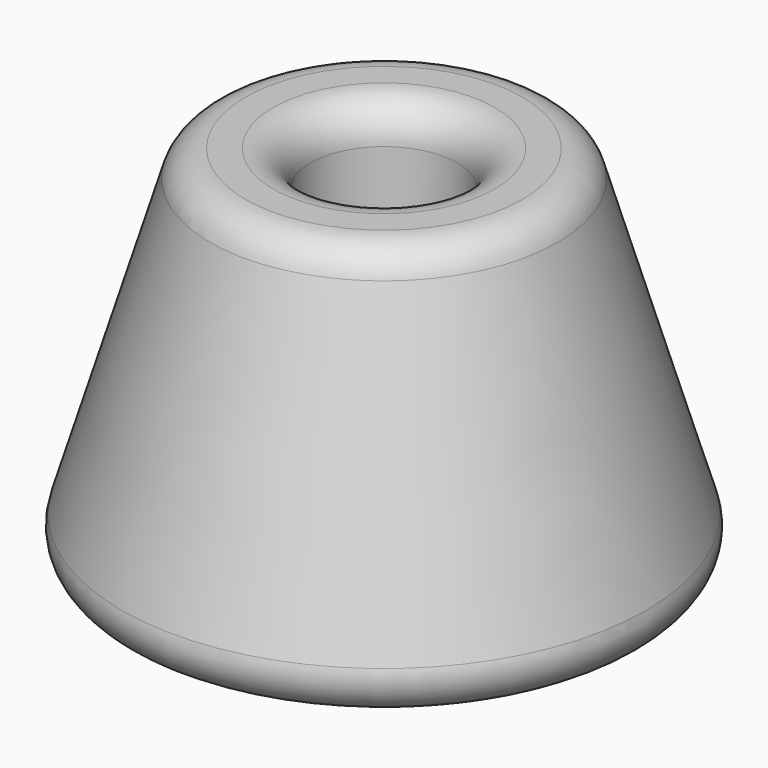
from build123d import *

# Parameters (mm, degrees)
F3_R    = 2.54
F4_SIZE = 2.54


with BuildPart() as f2:
    # F0 (on Front) → F2 (revolve)
    with BuildSketch(Plane.XZ):
        Polygon((2.032, 12.7), (2.032, 0), (19.05, 0), (11.43, 25.4), (5.08, 25.4), (5.08, 17.054286), align=None)
    revolve(axis=Axis((0, 0, 16.681224), (0, 0, 1)))

    # F3
    f3_edges = [f2.edges().sort_by_distance(p)[0] for p in [
        (-11.43, 0, 25.4),
        (-5.08, 0, 25.4),
        (-19.05, 0, 0),
    ]]
    fillet(f3_edges, radius=F3_R)

    # F4
    f4_edges = [f2.edges().sort_by_distance(p)[0] for p in [
        (-2.032, 0, 0),
    ]]
    chamfer(f4_edges, length=F4_SIZE)


solid = f2.part
